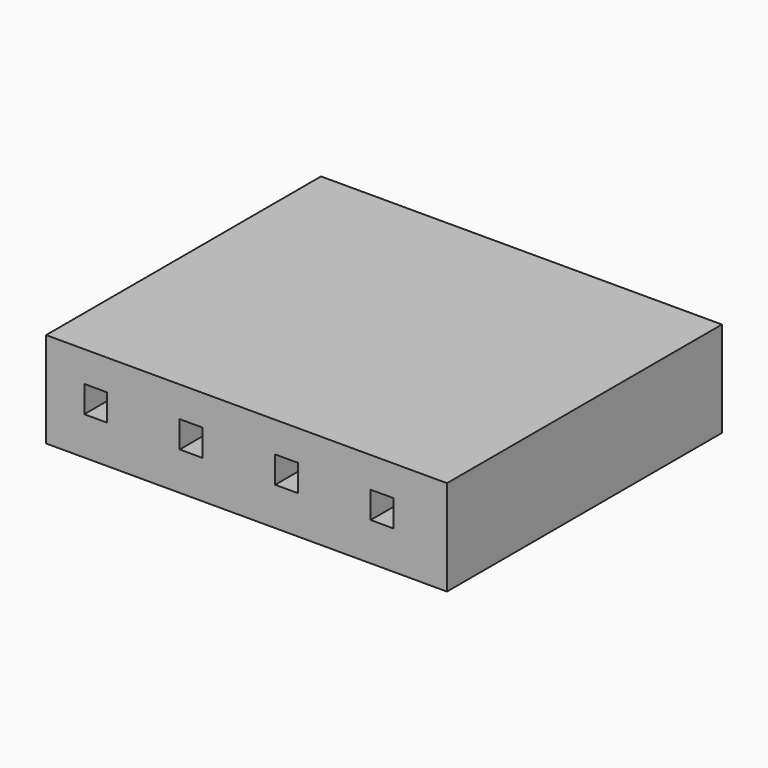
from build123d import *

# Parameters (mm, degrees)
BOX297_W         = 0.6
BOX297_H         = 0.7
BOX297_DEPTH     = 5
ARRAY009_X_COUNT = 4
ARRAY009_X_PITCH = 2.5
BOX296_W         = 2.5
BOX296_H         = 9
BOX296_DEPTH     = 10.5


with BuildPart() as array009:
    # Box297 → Box297 (new body)
    with BuildSketch(Plane(origin=(-27, -22.5, 13.5), x_dir=(1, 0, 0), z_dir=(0, -1, 0))):
        with Locations((0.3, 0.35)):
            Rectangle(BOX297_W, BOX297_H)
    extrude(amount=BOX297_DEPTH)

    # Array009 X: Array009 ×4


with BuildPart() as array009_1:
    add(array009.part)
    with Locations(*[(i * ARRAY009_X_PITCH, 0, 0) for i in range(1, ARRAY009_X_COUNT)]):
        add(array009.part)


with BuildPart() as obj1:
    # Box296 → Box296 (new body)
    with BuildSketch(Plane(origin=(-28, -27, 15), x_dir=(0, 0, -1), z_dir=(1, 0, 0))):
        with Locations((1.25, 4.5)):
            Rectangle(BOX296_W, BOX296_H)
    extrude(amount=BOX296_DEPTH)

    # Cut345: cut Array009
    add(array009_1.part, mode=Mode.SUBTRACT)


solid = obj1.part
